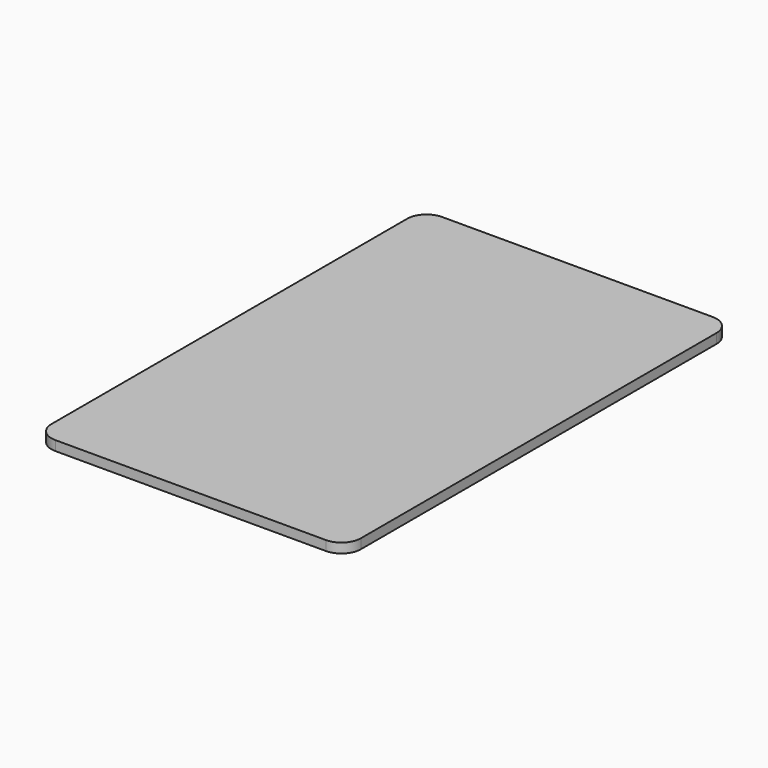
from build123d import *

# Parameters (mm, degrees)
SKETCH_W    = 48
SKETCH_H    = 75
PAD_DEPTH   = 1.5
FILLET010_R = 3
FILLET011_R = 3
FILLET012_R = 3
FILLET013_R = 3


with BuildPart() as part:
    # Sketch → Pad (new body)
    with BuildSketch(Plane.XY):
        with Locations((-5, 0)):
            Rectangle(SKETCH_W, SKETCH_H)
    extrude(amount=PAD_DEPTH)

    # Fillet010
    fillet010_edges = [part.edges().sort_by_distance(p)[0] for p in [
        (19, 37.5, 0.75),
    ]]
    fillet(fillet010_edges, radius=FILLET010_R)

    # Fillet011
    fillet011_edges = [part.edges().sort_by_distance(p)[0] for p in [
        (-29, 37.5, 0.75),
    ]]
    fillet(fillet011_edges, radius=FILLET011_R)

    # Fillet012
    fillet012_edges = [part.edges().sort_by_distance(p)[0] for p in [
        (19, -37.5, 0.75),
    ]]
    fillet(fillet012_edges, radius=FILLET012_R)

    # Fillet013
    fillet013_edges = [part.edges().sort_by_distance(p)[0] for p in [
        (-29, -37.5, 0.75),
    ]]
    fillet(fillet013_edges, radius=FILLET013_R)


solid = part.part
